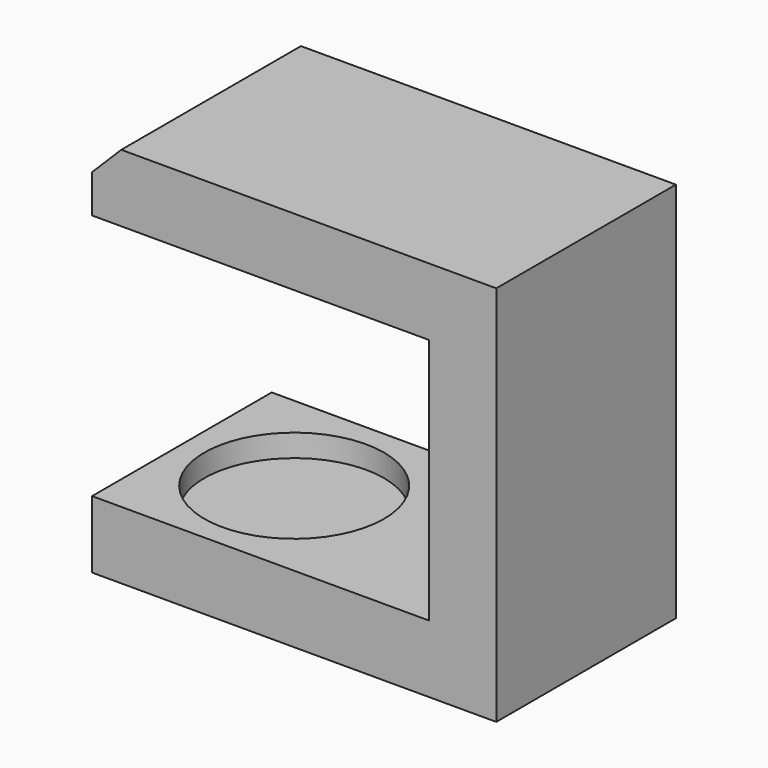
from build123d import *

# Parameters (mm, degrees)
F0_W      = 228.6
F0_H      = 127
F1_DEPTH  = 38.1
F2_W      = 38.1
F2_H      = 127
F3_DEPTH  = 139.7
F4_W      = 228.6
F4_H      = 127
F5_DEPTH  = 38.1
F6_SIZE   = 16.51
F7_R      = 12.7
F8_DEPTH  = 12.7
F9_DEPTH  = 12.7
F10_R     = 50.8
F11_DEPTH = 12.7


with BuildPart() as f1:
    # F0 (on Top) → F1 (new body)
    with BuildSketch(Plane.XY):
        with Locations((66.2241340283, 74.5616891205)):
            Rectangle(F0_W, F0_H)
    extrude(amount=F1_DEPTH)

    # F2 (on face) → F3 (join)
    with BuildSketch(Plane.XY.offset(38.1)):
        with Locations((161.4741340283, 74.5616891205)):
            Rectangle(F2_W, F2_H)
    extrude(amount=F3_DEPTH)

    # F4 (on face) → F5 (join)
    with BuildSketch(Plane.XY.offset(177.8)):
        with Locations((66.2241340283, 74.5616891205)):
            Rectangle(F4_W, F4_H)
    extrude(amount=F5_DEPTH)

    # F6
    f6_edges = [f1.edges().sort_by_distance(p)[0] for p in [
        (-48.075866, 74.561689, 215.9),
    ]]
    chamfer(f6_edges, length=F6_SIZE)

    # F7 (on face) → F8 (cut)
    with BuildSketch(Plane(origin=(0, 0, 177.8), x_dir=(1, 0, 0), z_dir=(0, 0, -1))):
        with Locations((15.4241340283, -99.9616891205)):
            Circle(F7_R)
    extrude(amount=-F8_DEPTH, mode=Mode.SUBTRACT)

    # F7 (on face) → F9 (cut)
    with BuildSketch(Plane(origin=(0, 0, 177.8), x_dir=(1, 0, 0), z_dir=(0, 0, -1))):
        with Locations((15.4241340283, -49.1616891205)):
            Circle(F7_R)
    extrude(amount=-F9_DEPTH, mode=Mode.SUBTRACT)

    # F10 (on face) → F11 (cut)
    with BuildSketch(Plane.XY.offset(38.1)):
        with Locations((15.4241340283, 74.5616891205)):
            Circle(F10_R)
    extrude(amount=-F11_DEPTH, mode=Mode.SUBTRACT)


solid = f1.part
